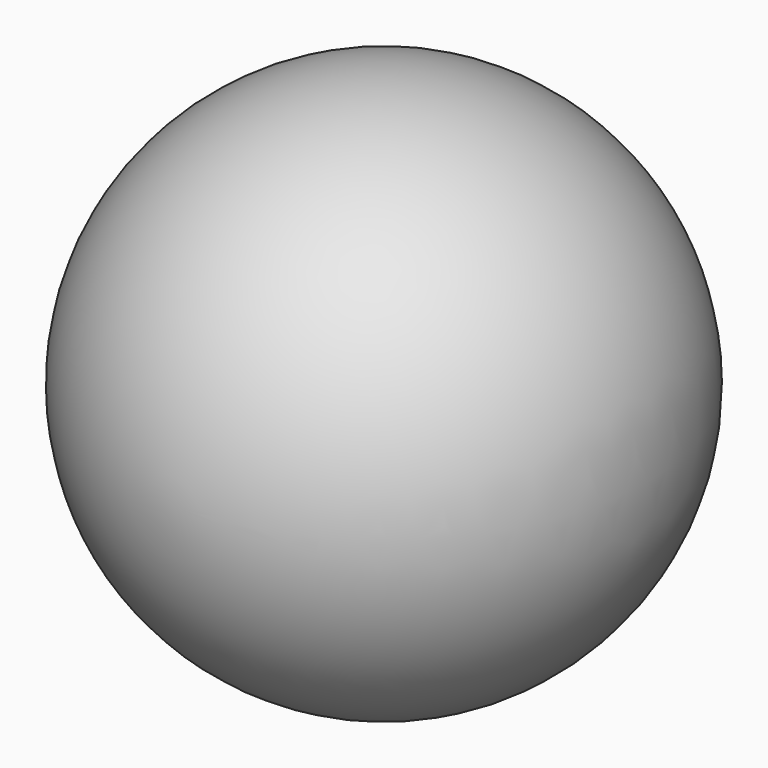
from build123d import *


with BuildPart() as part:
    # Sketch → Revolution (revolve)
    with BuildSketch(Plane.XY):
        with BuildLine():
            ThreePointArc((0, -21.335), (21.335, 0), (0, 21.335))
            Line((0, -21.335), (0, 21.335))
        make_face()
    revolve(axis=Axis((0, 0, 0), (0, 1, 0)))


solid = part.part
